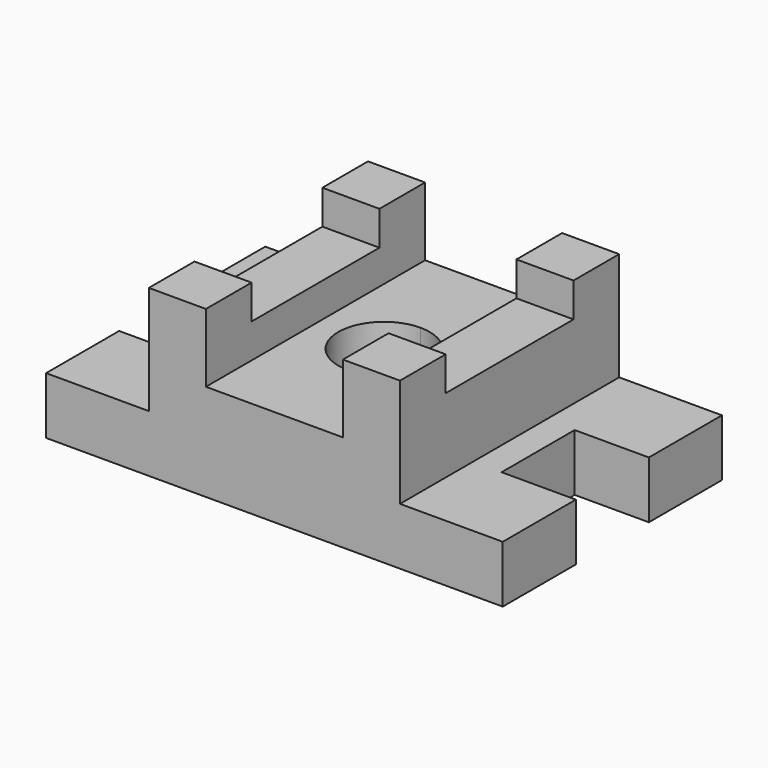
from build123d import *

# Parameters (mm, degrees)
F0_W     = 31.75
F0_H     = 31.75
F1_DEPTH = 92.075
F0_H_2   = 88.9
F2_DEPTH = 73.025
F3_DEPTH = 53.975
F4_DEPTH = 31.75
F5_DEPTH = 31.75


with BuildPart() as f1:
    # F0 (on Top) → F1 (new body)
    with BuildSketch(Plane.XY):
        with Locations((-53.975, 60.325)):
            Rectangle(F0_W, F0_H)
    extrude(amount=F1_DEPTH)



with BuildPart() as f1b:
    # F0 (on Top) → F1, piece 2 (new body)
    with BuildSketch(Plane.XY):
        with Locations((-53.975, -60.325)):
            Rectangle(F0_W, F0_H)
    extrude(amount=F1_DEPTH)


with BuildPart() as f1c:
    # F0 (on Top) → F1, piece 3 (new body)
    with BuildSketch(Plane.XY):
        with Locations((53.975, -60.325)):
            Rectangle(F0_W, F0_H)
    extrude(amount=F1_DEPTH)



with BuildPart() as f1d:
    # F0 (on Top) → F1, piece 4 (new body)
    with BuildSketch(Plane.XY):
        with Locations((53.975, 60.325)):
            Rectangle(F0_W, F0_H)
    extrude(amount=F1_DEPTH)


with BuildPart() as f1_1:
    add(f1.part)

    add(f1b.part)  # F2 merges F1b
    # F0 (on Top) → F2 (join)
    with BuildSketch(Plane.XY):
        with Locations((-53.975, 0)):
            Rectangle(F0_W, F0_H_2)
    extrude(amount=F2_DEPTH)



with BuildPart() as f1c_1:
    add(f1c.part)

    add(f1d.part)  # F2#2 merges F1d
    # F0 (on Top) → F2, piece 2 (join)
    with BuildSketch(Plane.XY):
        with Locations((53.975, 0)):
            Rectangle(F0_W, F0_H_2)
    extrude(amount=F2_DEPTH)


with BuildPart() as f1_2:
    add(f1_1.part)

    add(f1c_1.part)  # F3 merges F1c
    # F0 (on Top) → F3 (join)
    with BuildSketch(Plane.XY):
        with BuildLine():
            Line((0, 25.4), (0, 76.2))
            Line((0, 76.2), (-38.1, 76.2))
            Line((-38.1, 76.2), (-38.1, 44.45))
            Line((-38.1, 44.45), (-38.1, -44.45))
            Line((-38.1, -44.45), (-38.1, -76.2))
            Line((-38.1, -76.2), (0, -76.2))
            Line((0, -76.2), (0, -25.4))
            ThreePointArc((0, -25.4), (-25.4, 0), (0, 25.4))
        make_face()
        with BuildLine():
            Line((38.1, 76.2), (0, 76.2))
            Line((0, 76.2), (0, 25.4))
            ThreePointArc((0, 25.4), (17.9605122421, 17.9605122421), (25.4, 0))
            ThreePointArc((25.4, 0), (17.9605122421, -17.9605122421), (0, -25.4))
            Line((0, -25.4), (0, -76.2))
            Line((0, -76.2), (38.1, -76.2))
            Line((38.1, -76.2), (38.1, -44.45))
            Line((38.1, -44.45), (38.1, 44.45))
            Line((38.1, 44.45), (38.1, 76.2))
        make_face()
    extrude(amount=F3_DEPTH)

    # F0 (on Top) → F4 (join)
    with BuildSketch(Plane.XY):
        with BuildLine():
            Line((0, -25.4), (0, 25.4))
            ThreePointArc((0, 25.4), (-25.4, 0), (0, -25.4))
        make_face()
        with BuildLine():
            ThreePointArc((25.4, 0), (17.9605122421, 17.9605122421), (0, 25.4))
            Line((0, 25.4), (0, -25.4))
            ThreePointArc((0, -25.4), (17.9605122421, -17.9605122421), (25.4, 0))
        make_face()
    extrude(amount=F4_DEPTH)

    # F0 (on Top) → F5 (join)
    with BuildSketch(Plane.XY):
        Polygon((127, 76.2), (69.85, 76.2), (69.85, 44.45), (69.85, -44.45), (69.85, -76.2), (127, -76.2), (127, -25.4), (85.725, -25.4), (85.725, 25.4), (127, 25.4), align=None)
        Polygon((-69.85, 44.45), (-69.85, 76.2), (-127, 76.2), (-127, 25.4), (-85.725, 25.4), (-85.725, -25.4), (-127, -25.4), (-127, -76.2), (-69.85, -76.2), (-69.85, -44.45), align=None)
    extrude(amount=F5_DEPTH)


solid = f1_2.part
